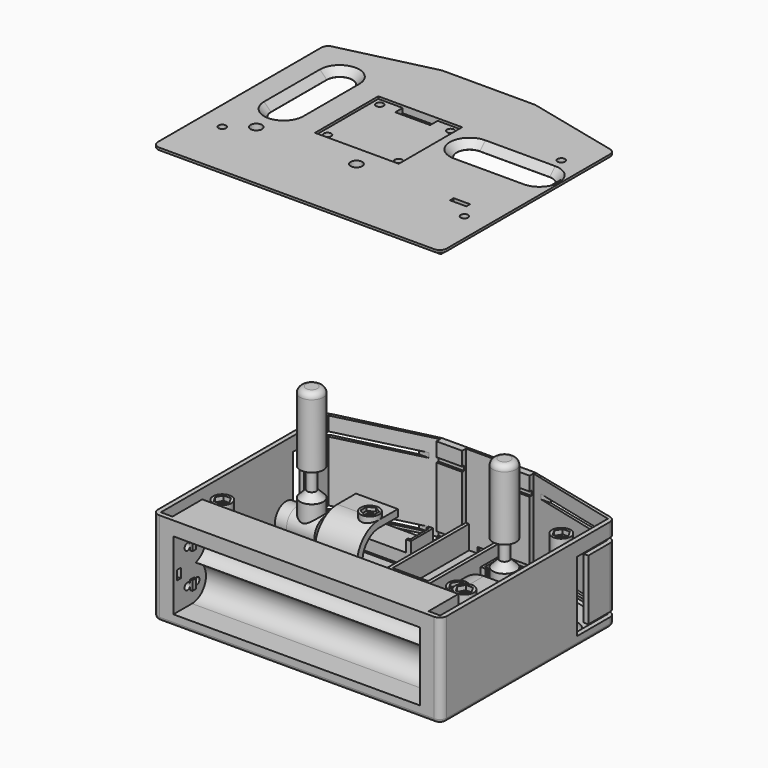
from build123d import *

# Parameters (mm, degrees)
PAD_DEPTH               = 40
POCKET_DEPTH            = 40
POCKET001_DEPTH         = 53
POCKET002_DEPTH         = 250
PAD001_DEPTH            = 10
SKETCH002_W             = 40.1
SKETCH002_H             = 6.1
SKETCH002_W_2           = 6.1
SKETCH002_H_2           = 40.1
POCKET003_DEPTH         = 1
SKETCH003_W             = 58.5
SKETCH003_H             = 30.5
SKETCH003_W_2           = 56.5
SKETCH003_H_2           = 28.5
PAD002_DEPTH            = 10
SKETCH008_W             = 8
SKETCH008_H             = 10
POCKET004_DEPTH         = 2.5
SKETCH011_W             = 22.5
SKETCH011_H             = 12
PAD003_DEPTH            = 5
PAD004_DEPTH            = 10
SKETCH010_R             = 4
SKETCH010_R_2           = 1.5
PAD005_DEPTH            = 36
POCKET005_DEPTH         = 4
SKETCH013_R             = 1.5
POCKET006_DEPTH         = 55
SKETCH014_W             = 2
SKETCH014_H             = 4
PAD006_DEPTH            = 55
SKETCH015_W             = 10
SKETCH015_H             = 25
POCKET007_DEPTH         = 52
FILLET_R                = 3
CHAMFER003_SIZE         = 3
CHAMFER004_SIZE         = 1
CHAMFER005_SIZE         = 0.9
CHAMFER006_SIZE         = 3
FILLET004_R             = 1.5
SKETCH060_W             = 2
SKETCH060_H             = 4
POCKET027_DEPTH         = 60
PAD008_DEPTH            = 3
PAD007_DEPTH            = 1
POCKET009_DEPTH         = 5
SKETCH017_R             = 2.5
SKETCH017_W             = 7
SKETCH017_H             = 2
POCKET008_DEPTH         = 5
SKETCH020_R             = 1.6
POCKET011_DEPTH         = 5
SKETCH018_W             = 36
SKETCH018_H             = 34
POCKET012_DEPTH         = 1
SKETCH021_R             = 1.6
SKETCH021_W             = 15
SKETCH021_H             = 4
POCKET010_DEPTH         = 5
CHAMFER_SIZE            = 2.95
FILLET001_R             = 3
PAD013_DEPTH            = 18
SKETCH027_W             = 12
SKETCH027_H             = 40
PAD014_DEPTH            = 4
SKETCH025_W             = 6
SKETCH025_H             = 40
PAD015_DEPTH            = 5
SKETCH024_R             = 6
PAD011_DEPTH            = 12
SKETCH028_R             = 3.5
POCKET015_DEPTH         = 100
SKETCH026_R             = 4
PAD012_DEPTH            = 4
POCKET013_DEPTH         = 1.5
SKETCH030_R             = 1.6
POCKET014_DEPTH         = 50
POCKET016_DEPTH         = 16
SKETCH032_W             = 13
SKETCH032_H             = 10
PAD009_DEPTH            = 5
SKETCH031_R             = 6
PAD010_DEPTH            = 5
SKETCH033_R             = 3
POCKET017_DEPTH         = 10
BODY002_PITCH_ANGLE     = 90
BODY002_PLACEMENT_ANGLE = -180
PAD019_DEPTH            = 18
SKETCH040_W             = 12
SKETCH040_H             = 40
PAD020_DEPTH            = 4
SKETCH034_W             = 6
SKETCH034_H             = 40
PAD018_DEPTH            = 5
SKETCH038_R             = 6
PAD017_DEPTH            = 12
SKETCH039_R             = 3.5
POCKET021_DEPTH         = 100
SKETCH035_R             = 4
PAD016_DEPTH            = 4
POCKET020_DEPTH         = 1.5
SKETCH044_R             = 1.6
POCKET018_DEPTH         = 50
POCKET022_DEPTH         = 16
SKETCH043_W             = 13
SKETCH043_H             = 10
PAD022_DEPTH            = 5
SKETCH042_R             = 6
PAD021_DEPTH            = 5
SKETCH045_R             = 3
POCKET019_DEPTH         = 10
BODY003_PITCH_ANGLE     = 90
BODY003_PLACEMENT_ANGLE = 90
SKETCH047_R             = 6
PAD024_DEPTH            = 6
SKETCH048_R             = 5
PAD026_DEPTH            = 11
SKETCH046_R             = 2
PAD025_DEPTH            = 25
CHAMFER001_SIZE         = 2.99
SKETCH049_R             = 3.1
POCKET023_DEPTH         = 100
SKETCH050_W             = 3
SKETCH050_H             = 8
PAD023_DEPTH            = 0.35
SKETCH051_R             = 6
PAD028_DEPTH            = 6
SKETCH054_R             = 5
PAD029_DEPTH            = 11
SKETCH053_R             = 2
PAD030_DEPTH            = 25
CHAMFER002_SIZE         = 2.99
SKETCH052_R             = 3.1
POCKET024_DEPTH         = 100
SKETCH055_W             = 3
SKETCH055_H             = 8
PAD027_DEPTH            = 0.35
BODY005_PLACEMENT_ANGLE = 90
SKETCH056_R             = 5
PAD031_DEPTH            = 30
SKETCH057_R             = 2.1
POCKET025_DEPTH         = 5
FILLET002_R             = 2.5
SKETCH059_R             = 5
PAD032_DEPTH            = 30
SKETCH058_R             = 2.1
POCKET026_DEPTH         = 5
FILLET003_R             = 2.5


with BuildPart() as body:
    # Sketch006 → Pad (new body)
    with BuildSketch(Plane.XY.offset(-2)):
        Polygon((-20, 51), (20, 51), (62, 41), (62, -52), (-62, -52), (-62, 41), align=None)
    extrude(amount=PAD_DEPTH)

    # Sketch → Pocket (cut)
    with BuildSketch(Plane.XY):
        Polygon((-9, 50), (9, 50), (9, 48), (20, 48), (20, 50), (60, 40), (60, -50), (55, -50), (55, -34), (-55, -34), (-55, -50), (-60, -50), (-60, 40), (-20, 50), (-20, 48), (-9, 48), align=None)
    extrude(amount=POCKET_DEPTH, mode=Mode.SUBTRACT)

    # Sketch004 → Pocket001 (cut, symmetric)
    with BuildSketch(Plane.YZ):
        with BuildLine():
            ThreePointArc((-40.079714, 17.25), (-34.562763, 25.468246), (-42, 32))
            Line((-42, 32), (-57, 32))
            Line((-57, 32), (-57, 2.5))
            Line((-57, 2.5), (-42, 2.5))
            ThreePointArc((-42, 2.5), (-34.562763, 9.031754), (-40.079714, 17.25))
        make_face()
    extrude(amount=POCKET001_DEPTH, both=True, mode=Mode.SUBTRACT)

    # Sketch009 → Pocket002 (cut, symmetric)
    with BuildSketch(Plane.YZ):
        Polygon((49, 2), (21, 2), (21, 32), (49, 32), (49, 30), (27, 30), (27, 4), (49, 4), align=None)
    extrude(amount=POCKET002_DEPTH, both=True, mode=Mode.SUBTRACT)

    # Sketch005 → Pad001 (join)
    with BuildSketch(Plane.XY):
        Polygon((-9.1, 50), (-7.6, 50), (-7.6, 9), (7.6, 9), (7.6, 50), (9.1, 50), (9.1, 7.5), (-9.1, 7.5), align=None)
    extrude(amount=PAD001_DEPTH)

    # Sketch002 → Pocket003 (cut)
    with BuildSketch(Plane.XY):
        with Locations((-35.05, 11.05)):
            Rectangle(SKETCH002_W, SKETCH002_H)
        with Locations((38.05, 3.05)):
            Rectangle(SKETCH002_W_2, SKETCH002_H_2)
    extrude(amount=-POCKET003_DEPTH, mode=Mode.SUBTRACT)

    # Sketch003 → Pad002 (join)
    with BuildSketch(Plane.XY):
        with Locations((-7.75, -18.25)):
            Rectangle(SKETCH003_W, SKETCH003_H)
        with Locations((-7.75, -18.25)):
            Rectangle(SKETCH003_W_2, SKETCH003_H_2, mode=Mode.SUBTRACT)
    extrude(amount=PAD002_DEPTH)

    # Sketch008 → Pocket004 (cut, symmetric)
    with BuildSketch(Plane.XY):
        with Locations((0, 46)):
            Rectangle(SKETCH008_W, SKETCH008_H)
    extrude(amount=POCKET004_DEPTH, both=True, mode=Mode.SUBTRACT)

    # Sketch011 → Pad003 (join)
    with BuildSketch(Plane.XY):
        with Locations((-26.25, 34)):
            Rectangle(SKETCH011_W, SKETCH011_H)
        with Locations((26.25, 34)):
            Rectangle(SKETCH011_W, SKETCH011_H)
    extrude(amount=PAD003_DEPTH)

    # Sketch007 → Pad004 (join)
    with BuildSketch(Plane.XY):
        Polygon((-37.5, 40), (-35.5, 40), (-35.5, 39), (-36.5, 39), (-36.5, 29), (-35.5, 29), (-35.5, 28), (-37.5, 28), align=None)
        Polygon((-15, 40), (-15, 28), (-17, 28), (-17, 29), (-16, 29), (-16, 39), (-17, 39), (-17, 40), align=None)
        Polygon((15, 40), (17, 40), (17, 39), (16, 39), (16, 29), (17, 29), (17, 28), (15, 28), align=None)
        Polygon((37.5, 40), (37.5, 28), (35.5, 28), (35.5, 29), (36.5, 29), (36.5, 39), (35.5, 39), (35.5, 40), align=None)
    extrude(amount=PAD004_DEPTH)

    # Sketch010 → Pad005 (join)
    with BuildSketch(Plane.XY):
        with Locations((52, -27)):
            Circle(SKETCH010_R)
        with Locations((52, -27)):
            Circle(SKETCH010_R_2, mode=Mode.SUBTRACT)
        with Locations((-52, -27)):
            Circle(SKETCH010_R)
        with Locations((-52, -27)):
            Circle(SKETCH010_R_2, mode=Mode.SUBTRACT)
        with Locations((52, 25)):
            Circle(SKETCH010_R)
        with Locations((52, 25)):
            Circle(SKETCH010_R_2, mode=Mode.SUBTRACT)
    extrude(amount=PAD005_DEPTH)

    # Sketch012 → Pocket005 (cut)
    with BuildSketch(Plane.XY.offset(38)):
        Polygon((-48.9, -27), (-50.45, -24.315321), (-53.55, -24.315321), (-55.1, -27), (-53.55, -29.684679), (-50.45, -29.684679), align=None)
        Polygon((55.1, -27), (53.55, -24.315321), (50.45, -24.315321), (48.9, -27), (50.45, -29.684679), (53.55, -29.684679), align=None)
        Polygon((55.1, 25), (53.55, 27.684679), (50.45, 27.684679), (48.9, 25), (50.45, 22.315321), (53.55, 22.315321), align=None)
    extrude(amount=-POCKET005_DEPTH, mode=Mode.SUBTRACT)

    # Sketch013 → Pocket006 (cut, symmetric)
    with BuildSketch(Plane.YZ):
        with Locations((-44.5, 25)):
            Circle(SKETCH013_R)
        with Locations((-39.5, 25)):
            Circle(SKETCH013_R)
        with Locations((-44.5, 10)):
            Circle(SKETCH013_R)
        with Locations((-39.5, 10)):
            Circle(SKETCH013_R)
    extrude(amount=POCKET006_DEPTH, both=True, mode=Mode.SUBTRACT)

    # Sketch014 → Pad006 (join, symmetric)
    with BuildSketch(Plane.YZ):
        with Locations((-42, 25)):
            Rectangle(SKETCH014_W, SKETCH014_H)
        with Locations((-42, 10)):
            Rectangle(SKETCH014_W, SKETCH014_H)
    extrude(amount=PAD006_DEPTH, both=True)

    # Sketch015 → Pocket007 (cut, symmetric)
    with BuildSketch(Plane.YZ):
        with Locations((-45, 17.5)):
            Rectangle(SKETCH015_W, SKETCH015_H)
    extrude(amount=POCKET007_DEPTH, both=True, mode=Mode.SUBTRACT)

    # Fillet
    fillet_edges = [body.edges().sort_by_distance(p)[0] for p in [
        (62, -52, 18),
        (-62, -52, 18),
        (-62, 41, 17),
        (62, 41, 17),
        (62, 41, 35),
        (62, 41, 0),
        (-62, 41, 35),
        (-62, 41, 0),
    ]]
    fillet(fillet_edges, radius=FILLET_R)

    # Chamfer003
    chamfer003_edges = [body.edges().sort_by_distance(p)[0] for p in [
        (-7.75, -3, 0),
        (48, -27, 0),
        (48, 25, 0),
    ]]
    chamfer(chamfer003_edges, length=CHAMFER003_SIZE)

    # Chamfer004
    chamfer004_edges = [body.edges().sort_by_distance(p)[0] for p in [
        (36.5, 34, 5),
        (16, 34, 5),
        (-16, 34, 5),
        (-36.5, 34, 5),
    ]]
    chamfer(chamfer004_edges, length=CHAMFER004_SIZE)

    # Chamfer005
    chamfer005_edges = [body.edges().sort_by_distance(p)[0] for p in [
        (-40, 45, 0),
        (-60, -5, 0),
        (40, 45, 0),
        (60, -5, 0),
    ]]
    chamfer(chamfer005_edges, length=CHAMFER005_SIZE)

    # Chamfer006
    chamfer006_edges = [body.edges().sort_by_distance(p)[0] for p in [
        (-56, -27, 0),
    ]]
    chamfer(chamfer006_edges, length=CHAMFER006_SIZE)

    # Fillet004
    fillet004_edges = [body.edges().sort_by_distance(p)[0] for p in [
        (-39.847431, 46.274421, -2),
        (-61.354207, 40.489915, -2),
        (-12, 51, -2),
        (-62, -5.184788, -2),
        (-4, 46, -2),
        (-61.12132, -51.12132, -2),
        (0, 41, -2),
        (0, -52, -2),
        (4, 46, -2),
        (61.12132, -51.12132, -2),
        (12, 51, -2),
        (62, -5.184788, -2),
        (39.847431, 46.274421, -2),
        (61.354207, 40.489915, -2),
    ]]
    fillet(fillet004_edges, radius=FILLET004_R)

    # Sketch060 → Pocket027 (cut, symmetric)
    with BuildSketch(Plane.YZ):
        with Locations((-49, 16.5)):
            Rectangle(SKETCH060_W, SKETCH060_H)
    extrude(amount=POCKET027_DEPTH, both=True, mode=Mode.SUBTRACT)


with BuildPart() as joystick_cover:
    # Sketch019 → Pad008 (new body)
    with BuildSketch(Plane.XY):
        Polygon((59.5, 39), (59.5, -49), (55.5, -49), (55.5, -32), (-55.5, -32), (-55.5, -49), (-59.5, -49), (-59.5, 39), (-21, 49), (-21, 46), (-9, 46), (-9, 49), (9, 49), (9, 46), (21, 46), (21, 49), align=None)
    extrude(amount=-PAD008_DEPTH)

    # Sketch001 → Pad007 (join)
    with BuildSketch(Plane.XY):
        Polygon((-20, 51), (20, 51), (62, 41), (62, -52), (-62, -52), (-62, 41), align=None)
    extrude(amount=-PAD007_DEPTH)

    # Sketch016 → Pocket009 (cut)
    with BuildSketch(Plane.XY):
        with BuildLine():
            ThreePointArc((-38.5, 26), (-44, 31.5), (-49.5, 26))
            Line((-49.5, 26), (-49.5, -4))
            ThreePointArc((-49.5, -4), (-44, -9.5), (-38.5, -4))
            Line((-38.5, 26), (-38.5, -4))
        make_face()
        with BuildLine():
            ThreePointArc((23, 17.5), (17.5, 12), (23, 6.5))
            Line((23, 6.5), (53, 6.5))
            ThreePointArc((53, 6.5), (58.5, 12), (53, 17.5))
            Line((23, 17.5), (53, 17.5))
        make_face()
    extrude(amount=-POCKET009_DEPTH, mode=Mode.SUBTRACT)

    # Sketch017 → Pocket008 (cut)
    with BuildSketch(Plane.XY):
        with Locations((-43, -20)):
            Circle(SKETCH017_R)
        with Locations((0, -20)):
            Circle(SKETCH017_R)
        with Locations((44.5, -20)):
            Rectangle(SKETCH017_W, SKETCH017_H)
    extrude(amount=-POCKET008_DEPTH, mode=Mode.SUBTRACT)

    # Sketch020 → Pocket011 (cut)
    with BuildSketch(Plane.XY):
        with Locations((-52, -27)):
            Circle(SKETCH020_R)
        with Locations((52, -27)):
            Circle(SKETCH020_R)
        with Locations((52, 25)):
            Circle(SKETCH020_R)
    extrude(amount=-POCKET011_DEPTH, mode=Mode.SUBTRACT)

    # Sketch018 → Pocket012 (cut)
    with BuildSketch(Plane.XY):
        with Locations((-7, 6)):
            Rectangle(SKETCH018_W, SKETCH018_H)
    extrude(amount=-POCKET012_DEPTH, mode=Mode.SUBTRACT)

    # Sketch021 → Pocket010 (cut)
    with BuildSketch(Plane.XY):
        with Locations((-22, 20)):
            Circle(SKETCH021_R)
        with Locations((8.5, 20)):
            Circle(SKETCH021_R)
        with Locations((8.5, -8)):
            Circle(SKETCH021_R)
        with Locations((-22, -8)):
            Circle(SKETCH021_R)
        with Locations((-7, 21)):
            Rectangle(SKETCH021_W, SKETCH021_H)
    extrude(amount=-POCKET010_DEPTH, mode=Mode.SUBTRACT)

    # Chamfer
    chamfer_edges = [joystick_cover.edges().sort_by_distance(p)[0] for p in [
        (-44, 31.5, 0),
        (38, 17.5, 0),
    ]]
    chamfer(chamfer_edges, length=CHAMFER_SIZE)

    # Fillet001
    fillet001_edges = [joystick_cover.edges().sort_by_distance(p)[0] for p in [
        (-62, 41, -0.5),
        (-62, -52, -0.5),
        (62, -52, -0.5),
        (62, 41, -0.5),
        (20, 51, -0.5),
        (-20, 51, -0.5),
    ]]
    fillet(fillet001_edges, radius=FILLET001_R)


with BuildPart() as joystick_cover_1:
    # Body001 placement: moved
    add(joystick_cover.part.moved(Location((0, 0, 177))))


with BuildPart() as potentiometerholder:
    # Sketch022 → Pad013 (new body)
    with BuildSketch(Plane.XY.offset(-8)):
        with BuildLine():
            Line((12, 0), (12, -10))
            Line((12, -10), (-12, -10))
            Line((-12, -10), (-12, 0))
            ThreePointArc((12, 0), (0, 12), (-12, 0))
        make_face()
    extrude(amount=PAD013_DEPTH)

    # Sketch027 → Pad014 (join)
    with BuildSketch(Plane(origin=(9, 0, -8), x_dir=(0, 1, 0), z_dir=(1, 0, 0))):
        with Locations((0, 20)):
            Rectangle(SKETCH027_W, SKETCH027_H)
    extrude(amount=PAD014_DEPTH)

    # Sketch025 → Pad015 (join)
    with BuildSketch(Plane(origin=(9, 0, -8), x_dir=(0, 1, 0), z_dir=(1, 0, 0))):
        with Locations((0, 20)):
            Rectangle(SKETCH025_W, SKETCH025_H)
    extrude(amount=PAD015_DEPTH)

    # Sketch024 → Pad011 (join)
    with BuildSketch(Plane.XY):
        Circle(SKETCH024_R)
    extrude(amount=PAD011_DEPTH)

    # Sketch028 → Pocket015 (cut, symmetric)
    with BuildSketch(Plane.XY):
        Circle(SKETCH028_R)
    extrude(amount=POCKET015_DEPTH, both=True, mode=Mode.SUBTRACT)

    # Sketch026 → Pad012 (join)
    with BuildSketch(Plane(origin=(-10, 0, -4), x_dir=(0, 1, 0), z_dir=(1, 0, 0))):
        Circle(SKETCH026_R)
    extrude(amount=-PAD012_DEPTH)

    # Sketch029 → Pocket013 (cut)
    with BuildSketch(Plane(origin=(-14, 0, -4), x_dir=(0, 1, 0), z_dir=(1, 0, 0))):
        Polygon((3.2, 0), (1.6, 2.771281), (-1.6, 2.771281), (-3.2, 0), (-1.6, -2.771281), (1.6, -2.771281), align=None)
    extrude(amount=POCKET013_DEPTH, mode=Mode.SUBTRACT)

    # Sketch030 → Pocket014 (cut)
    with BuildSketch(Plane(origin=(0, 0, -4), x_dir=(0, 1, 0), z_dir=(1, 0, 0))):
        Circle(SKETCH030_R)
    extrude(amount=-POCKET014_DEPTH, mode=Mode.SUBTRACT)

    # Sketch023 → Pocket016 (cut)
    with BuildSketch(Plane.XY.offset(-8)):
        with BuildLine():
            ThreePointArc((9, 0), (0, 9), (-9, 0))
            Line((-9, 0), (-9, -10))
            Line((-9, -10), (9, -10))
            Line((9, -10), (9, 0))
        make_face()
    extrude(amount=POCKET016_DEPTH, mode=Mode.SUBTRACT)

    # Sketch032 → Pad009 (join)
    with BuildSketch(Plane.XY.offset(32)):
        with Locations((6.5, 0)):
            Rectangle(SKETCH032_W, SKETCH032_H)
    extrude(amount=-PAD009_DEPTH)

    # Sketch031 → Pad010 (join)
    with BuildSketch(Plane.XY.offset(32)):
        Circle(SKETCH031_R)
    extrude(amount=-PAD010_DEPTH)

    # Sketch033 → Pocket017 (cut)
    with BuildSketch(Plane.XY.offset(35)):
        Circle(SKETCH033_R)
    extrude(amount=-POCKET017_DEPTH, mode=Mode.SUBTRACT)


with BuildPart() as potentiometerholder_1:
    # Body002 pitch: moved
    add(potentiometerholder.part.rotate(Axis((0, 0, 0), (0, 1, 0)), BODY002_PITCH_ANGLE))


with BuildPart() as potentiometerholder_2:
    # Body002 placement: moved
    add(potentiometerholder_1.part.moved(Location((-23, 11, 13))).rotate(Axis((-23, 11, 13), (0, 0, 1)), BODY002_PLACEMENT_ANGLE))


with BuildPart() as potentiometerholder2:
    # Sketch037 → Pad019 (new body)
    with BuildSketch(Plane.XY.offset(-8)):
        with BuildLine():
            Line((12, 0), (12, -10))
            Line((12, -10), (-12, -10))
            Line((-12, -10), (-12, 0))
            ThreePointArc((12, 0), (0, 12), (-12, 0))
        make_face()
    extrude(amount=PAD019_DEPTH)

    # Sketch040 → Pad020 (join)
    with BuildSketch(Plane(origin=(9, 0, -8), x_dir=(0, 1, 0), z_dir=(1, 0, 0))):
        with Locations((0, 20)):
            Rectangle(SKETCH040_W, SKETCH040_H)
    extrude(amount=PAD020_DEPTH)

    # Sketch034 → Pad018 (join)
    with BuildSketch(Plane(origin=(9, 0, -8), x_dir=(0, 1, 0), z_dir=(1, 0, 0))):
        with Locations((0, 20)):
            Rectangle(SKETCH034_W, SKETCH034_H)
    extrude(amount=PAD018_DEPTH)

    # Sketch038 → Pad017 (join)
    with BuildSketch(Plane.XY):
        Circle(SKETCH038_R)
    extrude(amount=PAD017_DEPTH)

    # Sketch039 → Pocket021 (cut, symmetric)
    with BuildSketch(Plane.XY):
        Circle(SKETCH039_R)
    extrude(amount=POCKET021_DEPTH, both=True, mode=Mode.SUBTRACT)

    # Sketch035 → Pad016 (join)
    with BuildSketch(Plane(origin=(-10, 0, -4), x_dir=(0, 1, 0), z_dir=(1, 0, 0))):
        Circle(SKETCH035_R)
    extrude(amount=-PAD016_DEPTH)

    # Sketch041 → Pocket020 (cut)
    with BuildSketch(Plane(origin=(-14, 0, -4), x_dir=(0, 1, 0), z_dir=(1, 0, 0))):
        Polygon((3.2, 0), (1.6, 2.771281), (-1.6, 2.771281), (-3.2, 0), (-1.6, -2.771281), (1.6, -2.771281), align=None)
    extrude(amount=POCKET020_DEPTH, mode=Mode.SUBTRACT)

    # Sketch044 → Pocket018 (cut)
    with BuildSketch(Plane(origin=(0, 0, -4), x_dir=(0, 1, 0), z_dir=(1, 0, 0))):
        Circle(SKETCH044_R)
    extrude(amount=-POCKET018_DEPTH, mode=Mode.SUBTRACT)

    # Sketch036 → Pocket022 (cut)
    with BuildSketch(Plane.XY.offset(-8)):
        with BuildLine():
            ThreePointArc((9, 0), (0, 9), (-9, 0))
            Line((-9, 0), (-9, -10))
            Line((-9, -10), (9, -10))
            Line((9, -10), (9, 0))
        make_face()
    extrude(amount=POCKET022_DEPTH, mode=Mode.SUBTRACT)

    # Sketch043 → Pad022 (join)
    with BuildSketch(Plane.XY.offset(32)):
        with Locations((6.5, 0)):
            Rectangle(SKETCH043_W, SKETCH043_H)
    extrude(amount=-PAD022_DEPTH)

    # Sketch042 → Pad021 (join)
    with BuildSketch(Plane.XY.offset(32)):
        Circle(SKETCH042_R)
    extrude(amount=-PAD021_DEPTH)

    # Sketch045 → Pocket019 (cut)
    with BuildSketch(Plane.XY.offset(35)):
        Circle(SKETCH045_R)
    extrude(amount=-POCKET019_DEPTH, mode=Mode.SUBTRACT)


with BuildPart() as potentiometerholder2_1:
    # Body003 pitch: moved
    add(potentiometerholder2.part.rotate(Axis((0, 0, 0), (0, 1, 0)), BODY003_PITCH_ANGLE))


with BuildPart() as potentiometerholder2_2:
    # Body003 placement: moved
    add(potentiometerholder2_1.part.moved(Location((38, -9, 13))).rotate(Axis((38, -9, 13), (0, 0, 1)), BODY003_PLACEMENT_ANGLE))


with BuildPart() as bottom_switch:
    # Sketch047 → Pad024 (new body, symmetric)
    with BuildSketch(Plane.YZ):
        Circle(SKETCH047_R)
    extrude(amount=PAD024_DEPTH, both=True)

    # Sketch048 → Pad026 (join)
    with BuildSketch(Plane.XY):
        Circle(SKETCH048_R)
    extrude(amount=PAD026_DEPTH)

    # Sketch046 → Pad025 (join)
    with BuildSketch(Plane.XY):
        Circle(SKETCH046_R)
    extrude(amount=PAD025_DEPTH)

    # Chamfer001
    chamfer001_edges = [bottom_switch.edges().sort_by_distance(p)[0] for p in [
        (-2, 0, 11),
    ]]
    chamfer(chamfer001_edges, length=CHAMFER001_SIZE)

    # Sketch049 → Pocket023 (cut, symmetric)
    with BuildSketch(Plane.YZ):
        Circle(SKETCH049_R)
    extrude(amount=POCKET023_DEPTH, both=True, mode=Mode.SUBTRACT)

    # Sketch050 → Pad023 (join, symmetric)
    with BuildSketch(Plane.XZ):
        Rectangle(SKETCH050_W, SKETCH050_H)
    extrude(amount=PAD023_DEPTH, both=True)


with BuildPart() as bottom_switch_1:
    # Body004 placement: moved
    add(bottom_switch.part.moved(Location((-44, 11, 13))))


with BuildPart() as bottom_switch2:
    # Sketch051 → Pad028 (new body, symmetric)
    with BuildSketch(Plane.YZ):
        Circle(SKETCH051_R)
    extrude(amount=PAD028_DEPTH, both=True)

    # Sketch054 → Pad029 (join)
    with BuildSketch(Plane.XY):
        Circle(SKETCH054_R)
    extrude(amount=PAD029_DEPTH)

    # Sketch053 → Pad030 (join)
    with BuildSketch(Plane.XY):
        Circle(SKETCH053_R)
    extrude(amount=PAD030_DEPTH)

    # Chamfer002
    chamfer002_edges = [bottom_switch2.edges().sort_by_distance(p)[0] for p in [
        (-2, 0, 11),
    ]]
    chamfer(chamfer002_edges, length=CHAMFER002_SIZE)

    # Sketch052 → Pocket024 (cut, symmetric)
    with BuildSketch(Plane.YZ):
        Circle(SKETCH052_R)
    extrude(amount=POCKET024_DEPTH, both=True, mode=Mode.SUBTRACT)

    # Sketch055 → Pad027 (join, symmetric)
    with BuildSketch(Plane.XZ):
        Rectangle(SKETCH055_W, SKETCH055_H)
    extrude(amount=PAD027_DEPTH, both=True)


with BuildPart() as bottom_switch2_1:
    # Body005 placement: moved
    add(bottom_switch2.part.moved(Location((38, 12, 13))).rotate(Axis((38, 12, 13), (0, 0, -1)), BODY005_PLACEMENT_ANGLE))


with BuildPart() as switch_upper:
    # Sketch056 → Pad031 (new body)
    with BuildSketch(Plane.XY):
        Circle(SKETCH056_R)
    extrude(amount=PAD031_DEPTH)

    # Sketch057 → Pocket025 (cut)
    with BuildSketch(Plane.XY):
        Circle(SKETCH057_R)
    extrude(amount=POCKET025_DEPTH, mode=Mode.SUBTRACT)

    # Fillet002
    fillet002_edges = [switch_upper.edges().sort_by_distance(p)[0] for p in [
        (-5, 0, 30),
    ]]
    fillet(fillet002_edges, radius=FILLET002_R)


with BuildPart() as switch_upper_1:
    # Body006 placement: moved
    add(switch_upper.part.moved(Location((-44, 11, 36))))


with BuildPart() as switch_upper2:
    # Sketch059 → Pad032 (new body)
    with BuildSketch(Plane.XY):
        Circle(SKETCH059_R)
    extrude(amount=PAD032_DEPTH)

    # Sketch058 → Pocket026 (cut)
    with BuildSketch(Plane.XY):
        Circle(SKETCH058_R)
    extrude(amount=POCKET026_DEPTH, mode=Mode.SUBTRACT)

    # Fillet003
    fillet003_edges = [switch_upper2.edges().sort_by_distance(p)[0] for p in [
        (-5, 0, 30),
    ]]
    fillet(fillet003_edges, radius=FILLET003_R)


with BuildPart() as switch_upper2_1:
    # Body007 placement: moved
    add(switch_upper2.part.moved(Location((38, 12, 35))))


solid = Compound([body.part, joystick_cover_1.part, potentiometerholder_2.part, potentiometerholder2_2.part, bottom_switch_1.part, bottom_switch2_1.part, switch_upper_1.part, switch_upper2_1.part])
